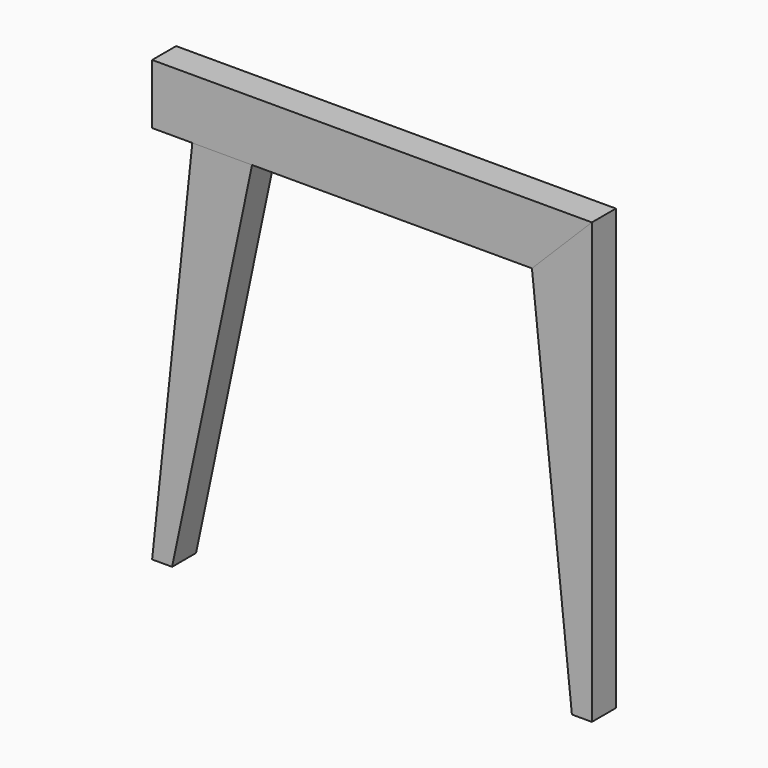
from build123d import *

# Parameters (mm, degrees)
F1_DEPTH = 38.1
F2_DEPTH = 38.1


with BuildPart() as f1:
    # F0 (on Front) → F1 (new body)
    with BuildSketch(Plane.XZ):
        Polygon((-139.700006, -38.1), (215.899994, -38.1), (292.099994, 38.1), (-266.700006, 38.1), (-266.700006, -38.1), (-215.616205, -38.1), align=None)
    extrude(amount=F1_DEPTH)


with BuildPart() as f2:
    # F0 (on Front) → F2 (new body)
    with BuildSketch(Plane.XZ):
        Polygon((-241.300006, -520.7), (-139.700006, -38.1), (-215.616205, -38.1), (-266.700006, -520.7), align=None)
        Polygon((292.099994, 38.1), (215.899994, -38.1), (266.699994, -520.7), (292.099994, -520.7), (292.099994, -38.1), align=None)
    extrude(amount=F2_DEPTH)


solid = Compound([f1.part, f2.part])
